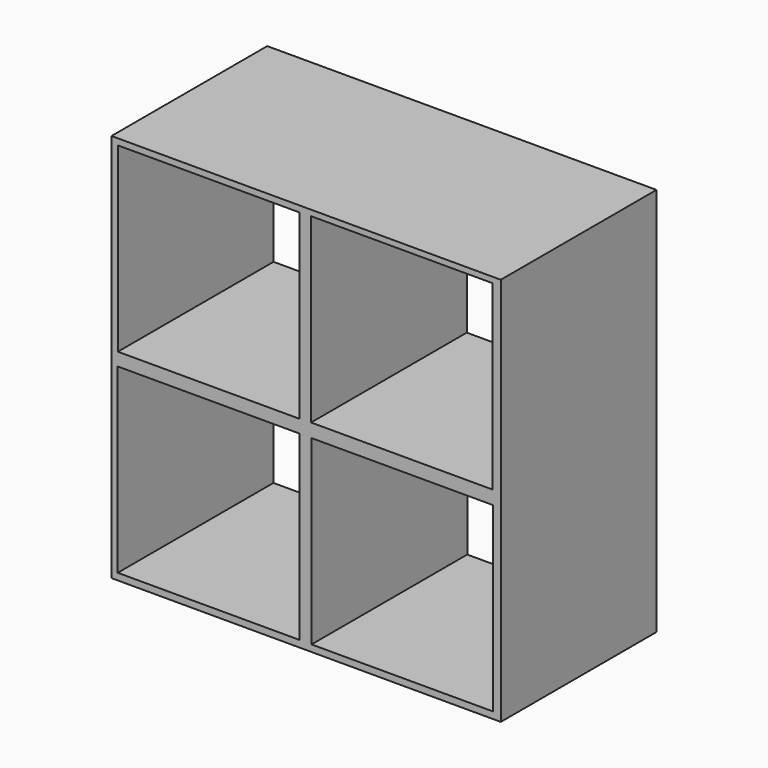
from build123d import *

# Parameters (mm, degrees)
F0_W     = 150
F0_H     = 75
F1_DEPTH = 150
F2_W     = 70
F2_H     = 70
F3_DEPTH = 128.9


with BuildPart() as f1:
    # F0 (on Top) → F1 (new body)
    with BuildSketch(Plane.XY):
        with Locations((0.03847, 32.289943)):
            Rectangle(F0_W, F0_H)
    extrude(amount=F1_DEPTH)

    # F2 (on face) → F3 (cut)
    with BuildSketch(Plane.XZ.offset(5.210057)):
        with Locations((-37.510861, 112.609673)):
            Rectangle(F2_W, F2_H)
        with Locations((36.934623, 112.797419)):
            Rectangle(F2_W, F2_H)
        with Locations((-37.563578, 37.591921)):
            Rectangle(F2_W, F2_H)
        with Locations((37.120325, 37.576821)):
            Rectangle(F2_W, F2_H)
    extrude(amount=-F3_DEPTH, mode=Mode.SUBTRACT)


solid = f1.part
